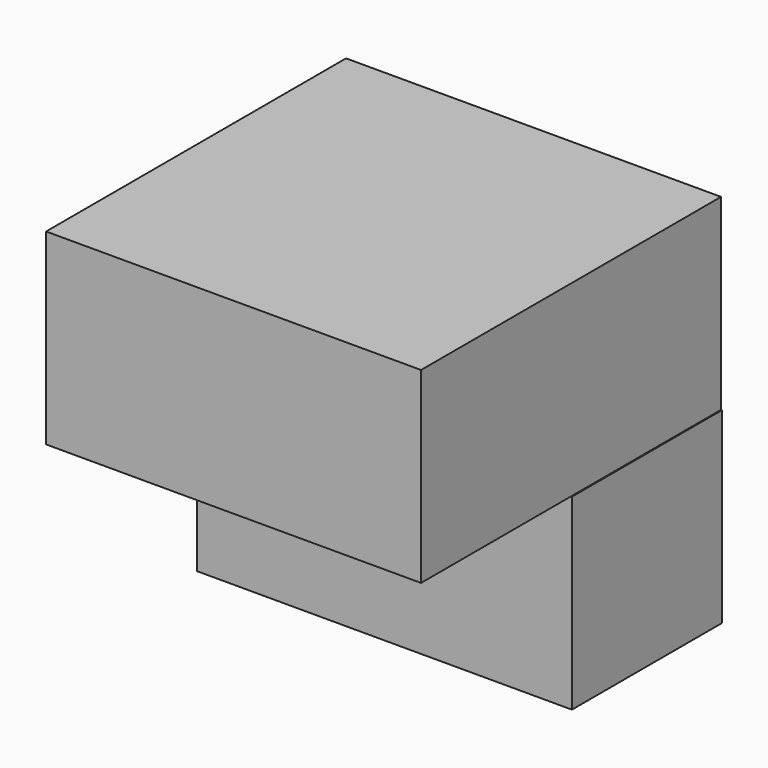
from build123d import *

# Parameters (mm, degrees)
F0_W     = 37.9984
F0_H     = 37.9984
F1_DEPTH = 18.9992
F2_W     = 37.9984
F2_H     = 18.9992
F3_DEPTH = 18.9992


with BuildPart() as f1:
    # F0 (on Top) → F1 (new body)
    with BuildSketch(Plane.XY):
        Rectangle(F0_W, F0_H)
    extrude(amount=F1_DEPTH)

    # F2 (on Top) → F3 (join)
    with BuildSketch(Plane.XY):
        with Locations((0.091437, 9.4996)):
            Rectangle(F2_W, F2_H)
    extrude(amount=-F3_DEPTH)


solid = f1.part
